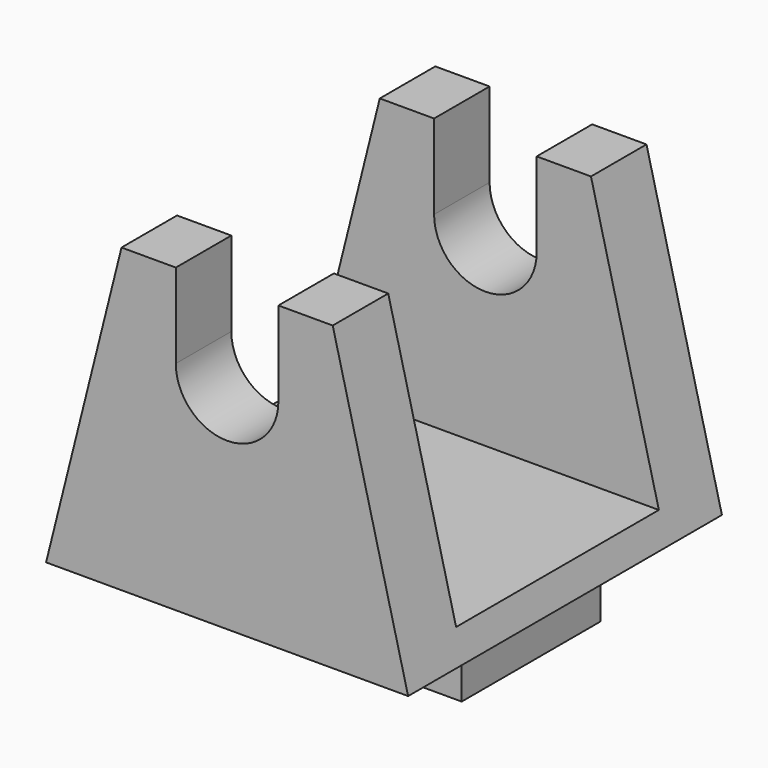
from build123d import *

# Parameters (mm, degrees)
PAD106_DEPTH    = 6.5
SKETCH195_W     = 12
SKETCH195_H     = 9
POCKET046_DEPTH = 4.2
SKETCH196_W     = 9.75
SKETCH196_H     = 5.75
PAD107_DEPTH    = 2


with BuildPart() as part:
    # Sketch194 → Pad106 (new body, symmetric)
    with BuildSketch(Plane.XZ):
        with BuildLine():
            Line((-1.7, 10), (-3.5, 10))
            Line((-3.5, 10), (-6, 0))
            Line((-6, 0), (6, 0))
            Line((6, 0), (3.5, 10))
            Line((3.5, 10), (1.7, 10))
            Line((1.7, 10), (1.7, 7.2))
            ThreePointArc((-1.7, 7.2), (0, 5.5), (1.7, 7.2))
            Line((-1.7, 10), (-1.7, 7.2))
        make_face()
    extrude(amount=PAD106_DEPTH, both=True)

    # Sketch195 → Pocket046 (cut, symmetric)
    with BuildSketch(Plane.XZ):
        with Locations((0, 5.5)):
            Rectangle(SKETCH195_W, SKETCH195_H)
    extrude(amount=POCKET046_DEPTH, both=True, mode=Mode.SUBTRACT)

    # Sketch196 → Pad107 (join)
    with BuildSketch(Plane.XY):
        Rectangle(SKETCH196_W, SKETCH196_H)
    extrude(amount=-PAD107_DEPTH)


with BuildPart() as part_1:
    # Body150 placement: moved
    add(part.part.moved(Location((0, 0, -10))))


solid = part_1.part
